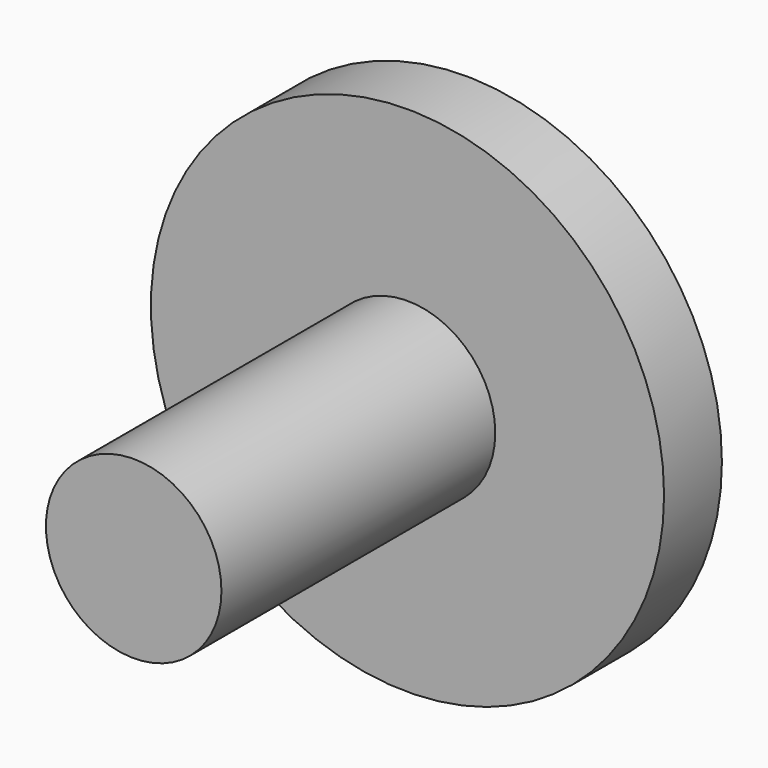
from build123d import *

# Parameters (mm, degrees)
F0_R     = 11.0109
F0_R_2   = 4.0005284671
F1_DEPTH = 3.5052
F2_R     = 15.7206731231
F3_DEPTH = 4.43
F4_R     = 5.3773289571
F5_DEPTH = 25.4


with BuildPart() as f1:
    # F0 (on Front) → F1 (new body, symmetric)
    with BuildSketch(Plane.XZ):
        Circle(F0_R)
        Circle(F0_R_2, mode=Mode.SUBTRACT)
    extrude(amount=F1_DEPTH, both=True)

    # F2 (on Front) → F3 (join)
    with BuildSketch(Plane.XZ):
        Circle(F2_R)
    extrude(amount=F3_DEPTH)

    # F4 (on Front) → F5 (join)
    with BuildSketch(Plane.XZ):
        Circle(F4_R)
    extrude(amount=F5_DEPTH)


solid = f1.part
